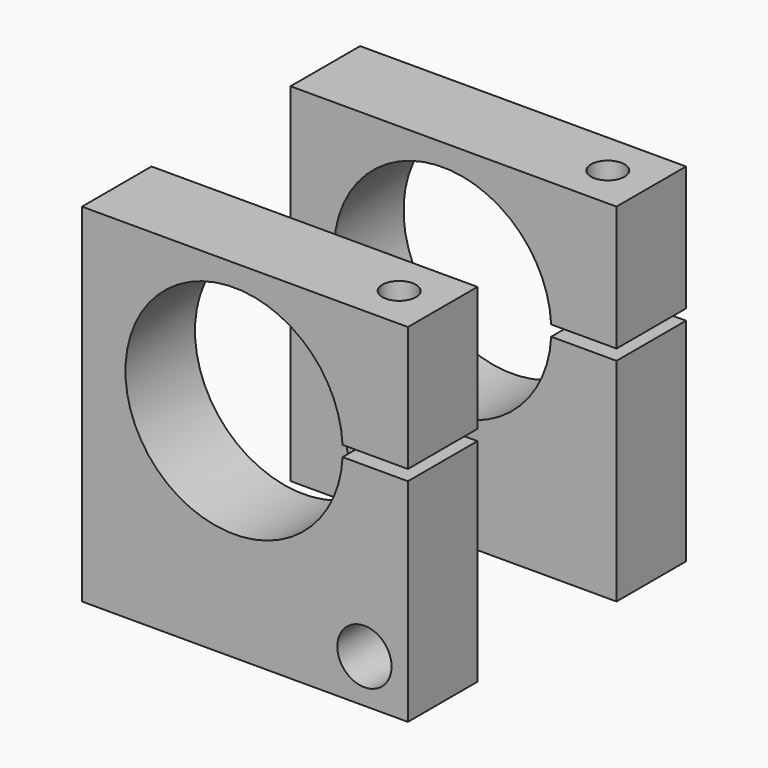
from build123d import *

# Parameters (mm, degrees)
F0_R      = 7.1374
F1_DEPTH  = 12.7
F3_D      = 4.0386
F3_DEPTH  = 9.525
F3_TIP    = 1.213317848
F5_D      = 4.0386
F5_DEPTH  = 12.7
F5_TIP    = 1.213317848
F7_D      = 4.0386
F7_DEPTH  = 12.7
F7_TIP    = 1.213317848
F9_D      = 4.9149
F9_DEPTH  = 18.288
F9_TIP    = 1.4765849282
F11_R     = 3.9624
F12_DEPTH = 12.7
F14_D     = 4.0386
F14_DEPTH = 12.7
F14_TIP   = 1.213317848
F16_D     = 4.9149
F16_DEPTH = 18.288
F16_TIP   = 1.4765849282
F18_D     = 4.0386
F18_DEPTH = 12.7
F18_TIP   = 1.213317848


with BuildPart() as f1:
    # F0 (on Front) → F1 (new body)
    with BuildSketch(Plane.XZ):
        with BuildLine():
            Line((-23.8125, -25.4), (23.8125, -25.4))
            Line((23.8125, -25.4), (23.8125, 5.5626))
            Line((23.8125, 5.5626), (14.267960455, 5.5626))
            ThreePointArc((14.267960455, 5.5626), (-17.4625, 6.35), (14.267960455, 7.1374))
            Line((14.267960455, 7.1374), (23.8125, 7.1374))
            Line((23.8125, 7.1374), (23.8125, 25.4))
            Line((23.8125, 25.4), (-23.8125, 25.4))
            Line((-23.8125, 25.4), (-23.8125, -25.4))
        make_face()
        with Locations((-8.5725, -17.145)):
            Circle(F0_R, mode=Mode.SUBTRACT)
    extrude(amount=F1_DEPTH)

    # F3
    with Locations(Plane(origin=(-23.8125, 0, 0), x_dir=(0, -1, 0), z_dir=(-1, 0, 0))):
        with Locations((6.35, -17.145)):
            Hole(F3_D / 2, depth=F3_DEPTH)
            with Locations((0, 0, -(F3_DEPTH + F3_TIP / 2))):  # 118° drill point
                Cone(0, F3_D / 2, F3_TIP, mode=Mode.SUBTRACT)

    # F5
    with Locations(Plane(origin=(0, 0, -25.4), x_dir=(1, 0, 0), z_dir=(0, 0, -1))):
        with Locations((1.5875, 6.35), (17.4625, 6.35)):
            Hole(F5_D / 2, depth=F5_DEPTH)
            with Locations((0, 0, -(F5_DEPTH + F5_TIP / 2))):  # 118° drill point
                Cone(0, F5_D / 2, F5_TIP, mode=Mode.SUBTRACT)

    # F7 (one way)
    with BuildSketch(Plane.XY.offset(5.5626)):
        with Locations((17.4625, -6.35)):
            Circle(F7_D / 2)
    extrude(amount=-F7_DEPTH, mode=Mode.SUBTRACT)
    with Locations(Plane.XY.offset(5.5626)):
        with Locations((17.4625, -6.35)):
            with Locations((0, 0, -(F7_DEPTH + F7_TIP / 2))):  # 118° drill point
                Cone(0, F7_D / 2, F7_TIP, mode=Mode.SUBTRACT)

    # F9
    with Locations(Plane.XY.offset(25.4)):
        with Locations((17.4625, -6.35)):
            Hole(F9_D / 2, depth=F9_DEPTH)
            with Locations((0, 0, -(F9_DEPTH + F9_TIP / 2))):  # 118° drill point
                Cone(0, F9_D / 2, F9_TIP, mode=Mode.SUBTRACT)


with BuildPart() as f12:
    # F11 (on offset) → F12 (new body)
    with BuildSketch(Plane.XZ.offset(38.1)):
        with BuildLine():
            Line((-23.8125, 25.4), (-23.8125, -25.4))
            Line((-23.8125, -25.4), (23.8125, -25.4))
            Line((23.8125, -25.4), (23.8125, 5.5626))
            Line((23.8125, 5.5626), (14.267960455, 5.5626))
            ThreePointArc((14.267960455, 5.5626), (-17.4625, 6.35), (14.267960455, 7.1374))
            Line((14.267960455, 7.1374), (23.8125, 7.1374))
            Line((23.8125, 7.1374), (23.8125, 25.4))
            Line((23.8125, 25.4), (-23.8125, 25.4))
        make_face()
        with Locations((17.4625, -19.05)):
            Circle(F11_R, mode=Mode.SUBTRACT)
    extrude(amount=F12_DEPTH)

    # F14 (one way)
    with BuildSketch(Plane.XY.offset(5.5626)):
        with Locations((17.4625, -44.45)):
            Circle(F14_D / 2)
    extrude(amount=-F14_DEPTH, mode=Mode.SUBTRACT)
    with Locations(Plane.XY.offset(5.5626)):
        with Locations((17.4625, -44.45)):
            with Locations((0, 0, -(F14_DEPTH + F14_TIP / 2))):  # 118° drill point
                Cone(0, F14_D / 2, F14_TIP, mode=Mode.SUBTRACT)

    # F16
    with Locations(Plane.XY.offset(25.4)):
        with Locations((17.4625, -44.45)):
            Hole(F16_D / 2, depth=F16_DEPTH)
            with Locations((0, 0, -(F16_DEPTH + F16_TIP / 2))):  # 118° drill point
                Cone(0, F16_D / 2, F16_TIP, mode=Mode.SUBTRACT)

    # F18
    with Locations(Plane(origin=(0, 0, -25.4), x_dir=(1, 0, 0), z_dir=(0, 0, -1))):
        with Locations((-17.4625, 44.45), (7.9375, 44.45)):
            Hole(F18_D / 2, depth=F18_DEPTH)
            with Locations((0, 0, -(F18_DEPTH + F18_TIP / 2))):  # 118° drill point
                Cone(0, F18_D / 2, F18_TIP, mode=Mode.SUBTRACT)


solid = Compound([f1.part, f12.part])
